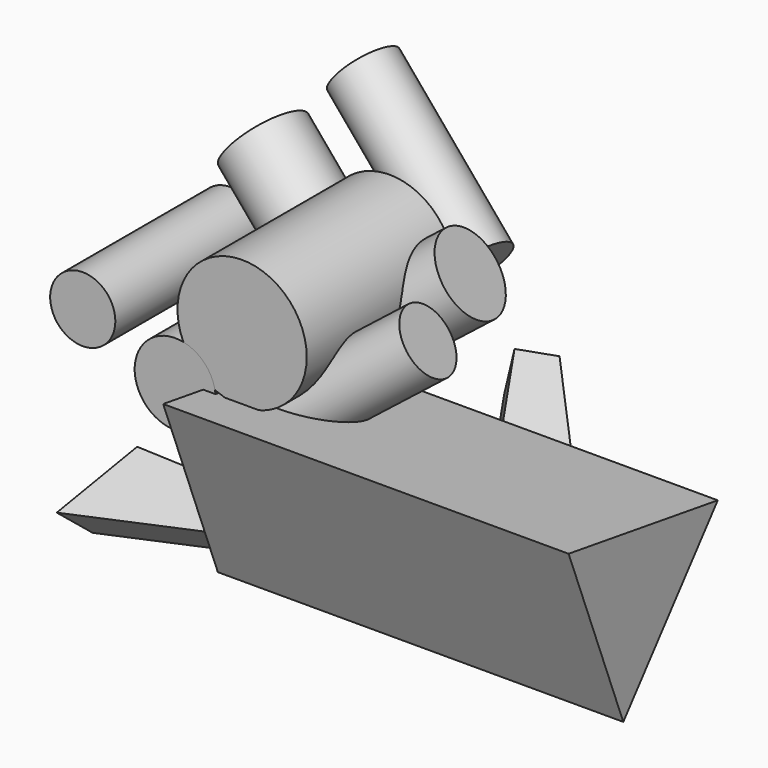
from build123d import *

# Parameters (mm, degrees)
F1_R     = 100.5781763283
F2_DEPTH = 286.9854867458
F1_R_2   = 50.7247684697
F0_R     = 63.109362795
F5_DEPTH = 631.0256123543
F7_DEPTH = 89.520663023
F8_COUNT = 3


with BuildPart() as f2:
    # F1 (on Front) → F2 (new body)
    with BuildSketch(Plane.XZ):
        with Locations((60.5446472764, 191.1226809025)):
            Circle(F1_R)
        with Locations((60.5446472764, 191.1226809025)):
            Circle(F1_R)
    extrude(amount=F2_DEPTH)


with BuildPart() as f2b:
    # F1 (on Front) → F2, piece 2 (new body)
    with BuildSketch(Plane.XZ):
        with Locations((-187.4729096889, 143.4293091297)):
            Circle(F1_R_2)
        with Locations((-187.4729096889, 143.4293091297)):
            Circle(F1_R_2)
    extrude(amount=F2_DEPTH)


with BuildPart() as f2c:
    # F0 (on Front) → F2, piece 3 (new body)
    with BuildSketch(Plane.XZ):
        with Locations((-43.5695188261, 87.5067530932)):
            Circle(F0_R)
    extrude(amount=F2_DEPTH)


with BuildPart() as f5:
    # F4 (on Right) → F5 (new body)
    with BuildSketch(Plane.YZ):
        Polygon((-364.8598975756, 106.1200081633), (-258.4813535213, -167.537689209), (-74.676107683, 61.4176810457), align=None)
    extrude(amount=F5_DEPTH)


with BuildPart() as f7:
    # F6 (on face) → F7 (new body)
    with BuildSketch(Plane(origin=(0, -75.3926247871, 60.5251578855), x_dir=(-1, 0, 0), z_dir=(0, 0.7798027868, -0.6260252501))):
        Polygon((0, -188.1250332441), (0, -243.6144023215), (250.7800459862, -292.4622109168), (180.3864240646, -183.0297857523), align=None)
    extrude(amount=F7_DEPTH)


with BuildPart() as f8_1:
    # F8: instance of F7
    add(f7.part.rotate(Axis((0, -83.3675116301, 165.7738387585), (0, -0.4492844027, 0.8933887874)), 1 * 360 / F8_COUNT))


with BuildPart() as f8_2:
    # F8: instance of F7
    add(f7.part.rotate(Axis((0, -83.3675116301, 165.7738387585), (0, -0.4492844027, 0.8933887874)), 2 * 360 / F8_COUNT))


with BuildPart() as f8_3:
    # F8: instance of F2c
    add(f2c.part.rotate(Axis((0, -83.3675116301, 165.7738387585), (0, -0.4492844027, 0.8933887874)), 1 * 360 / F8_COUNT))


with BuildPart() as f8_4:
    # F8: instance of F2c
    add(f2c.part.rotate(Axis((0, -83.3675116301, 165.7738387585), (0, -0.4492844027, 0.8933887874)), 2 * 360 / F8_COUNT))


with BuildPart() as f8_5:
    # F8: instance of F2b
    add(f2b.part.rotate(Axis((0, -83.3675116301, 165.7738387585), (0, -0.4492844027, 0.8933887874)), 1 * 360 / F8_COUNT))


with BuildPart() as f8_6:
    # F8: instance of F2b
    add(f2b.part.rotate(Axis((0, -83.3675116301, 165.7738387585), (0, -0.4492844027, 0.8933887874)), 2 * 360 / F8_COUNT))


solid = Compound([f2.part, f2b.part, f2c.part, f5.part, f7.part, f8_1.part, f8_2.part, f8_3.part, f8_4.part, f8_5.part, f8_6.part])
